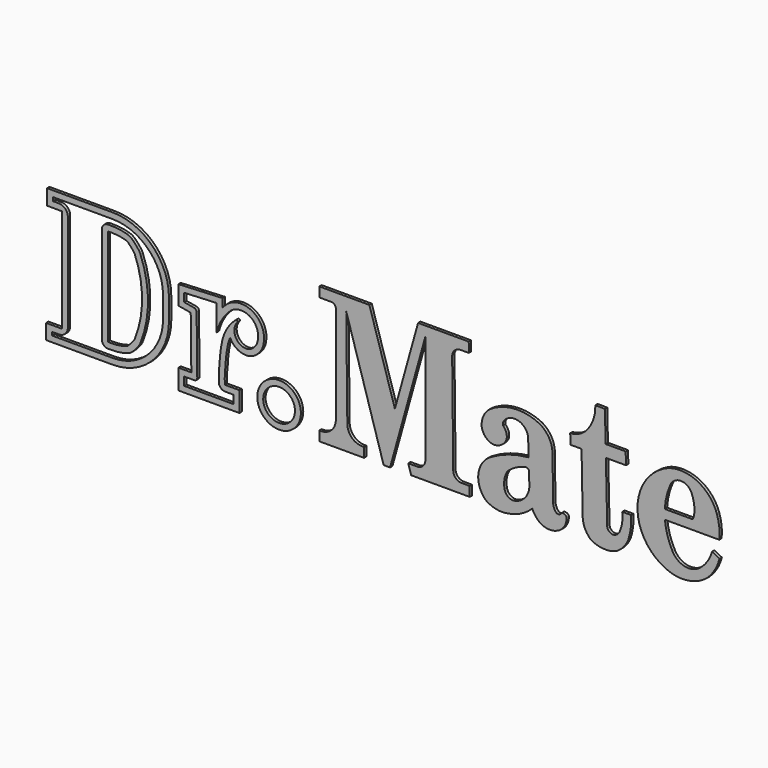
from build123d import *

# Parameters (mm, degrees)
F1_DEPTH  = 5
F3_DEPTH  = 12.5
F4_R      = 5
F6_DEPTH  = 5
F7_R      = 5.37597
F8_DEPTH  = 5
F10_DEPTH = 0.5
F12_DEPTH = 0.5
F14_DEPTH = 0.5
F16_DEPTH = 0.5
F18_DEPTH = 0.5
F20_DEPTH = 0.5
F21_R     = 7.37597
F21_R_2   = 5.37597
F22_DEPTH = 0.5


with BuildPart() as f1:
    # F0 (on Front) → F1 (new body, symmetric)
    with BuildSketch(Plane.XZ):
        with BuildLine():
            ThreePointArc((41.928615, 27.375755), (36.627247, 40.174388), (23.828615, 45.475755))
            Line((23.828615, 45.475755), (2.694897, 45.475755))
            Line((2.694897, 45.475755), (2.694897, 42.241637))
            Line((2.694897, 42.241637), (5.72509, 42.241637))
            ThreePointArc((5.72509, 42.241637), (7.139303, 41.65585), (7.72509, 40.241637))
            Line((7.72509, 40.241637), (7.72509, 7.241453))
            ThreePointArc((7.72509, 7.241453), (7.139303, 5.827239), (5.72509, 5.241453))
            Line((5.72509, 5.241453), (2.359551, 5.241453))
            Line((2.359551, 5.241453), (2.359551, 2.111555))
            Line((2.359551, 2.111555), (23.828615, 2.111555))
            ThreePointArc((23.828615, 2.111555), (36.627247, 7.412922), (41.928615, 20.211555))
            Line((41.928615, 20.211555), (41.928615, 27.375755))
        make_face()
    extrude(amount=F1_DEPTH, both=True)

    # F2 (on Front) → F3 (cut, symmetric)
    with BuildSketch(Plane.XZ):
        with BuildLine():
            ThreePointArc((22.255834, 42.332382), (20.84162, 41.746595), (20.255834, 40.332382))
            Line((20.255834, 40.332382), (20.255834, 7.374743))
            ThreePointArc((20.255834, 7.374743), (20.84162, 5.96053), (22.255834, 5.374743))
            Line((22.255834, 5.374743), (23.679911, 5.374743))
            ThreePointArc((23.679911, 5.374743), (26.847073, 5.655571), (29.915409, 6.489289))
            ThreePointArc((29.915409, 6.489289), (31.557457, 8.171211), (33.024682, 10.00763))
            ThreePointArc((33.024682, 10.00763), (35.838498, 23.853563), (33.024682, 37.699496))
            ThreePointArc((33.024682, 37.699496), (31.557457, 39.535914), (29.915409, 41.217836))
            ThreePointArc((29.915409, 41.217836), (26.847073, 42.051555), (23.679911, 42.332382))
            Line((23.679911, 42.332382), (22.255834, 42.332382))
        make_face()
    extrude(amount=F3_DEPTH, both=True, mode=Mode.SUBTRACT)

    # F4
    f4_edges = [f1.edges().sort_by_distance(p)[0] for p in [
        (33.024682, 0, 10.00763),
        (29.915409, 0, 6.489289),
        (33.024682, 0, 37.699496),
        (29.915409, 0, 41.217836),
    ]]
    fillet(f4_edges, radius=F4_R)


with BuildPart() as f6:
    # F5 (on Front) → F6 (new body, symmetric)
    with BuildSketch(Plane.XZ):
        with BuildLine():
            Line((59.08636, 30.932959), (48.097987, 30.420209))
            Line((48.097987, 30.420209), (48.097987, 27.610346))
            Line((48.097987, 27.610346), (51.457718, 27.038821))
            ThreePointArc((51.457718, 27.038821), (52.050479, 26.702366), (52.289954, 26.064229))
            Line((52.289954, 26.064229), (52.510208, 6.479412))
            ThreePointArc((52.510208, 6.479412), (52.221343, 5.765047), (51.510271, 5.468167))
            Line((51.510271, 5.468167), (48.097987, 5.468167))
            Line((48.097987, 5.468167), (48.097987, 2.663691))
            Line((48.097987, 2.663691), (64.79115, 2.663691))
            Line((64.79115, 2.663691), (64.79115, 5.468167))
            Line((64.79115, 5.468167), (61.827441, 5.468167))
            ThreePointArc((61.827441, 5.468167), (60.623815, 5.923207), (59.888292, 6.97904))
            ThreePointArc((59.888292, 6.97904), (59.807752, 10.034382), (60.031943, 13.082551))
            ThreePointArc((60.031943, 13.082551), (60.342022, 16.746232), (60.961258, 20.370491))
            ThreePointArc((60.961258, 20.370491), (62.625207, 24.520168), (65.505102, 27.939927))
            ThreePointArc((65.505102, 27.939927), (65.978585, 27.977635), (66.106237, 27.520128))
            ThreePointArc((66.106237, 27.520128), (65.059345, 24.927677), (65.855473, 22.247571))
            ThreePointArc((65.855473, 22.247571), (67.650507, 20.854267), (69.917969, 20.70575))
            ThreePointArc((69.917969, 20.70575), (72.143746, 22.340309), (73.065154, 24.943551))
            ThreePointArc((73.065154, 24.943551), (70.299431, 30.621512), (63.990012, 30.339213))
            ThreePointArc((63.990012, 30.339213), (60.907157, 26.647036), (59.08636, 22.194974))
            Line((59.08636, 22.194974), (59.08636, 30.932959))
        make_face()
    extrude(amount=F6_DEPTH, both=True)


with BuildPart() as f8:
    # F7 (on Front) → F8 (new body, symmetric)
    with BuildSketch(Plane.XZ):
        with Locations((80.198042, 7.442546)):
            Circle(F7_R)
    extrude(amount=F8_DEPTH, both=True)


with BuildPart() as f10:
    # F9 (on Front) → F10 (new body, symmetric)
    with BuildSketch(Plane.XZ):
        with BuildLine():
            Line((110.74648, 47.16339), (93.808994, 47.16339))
            Line((93.808994, 47.16339), (93.808994, 43.880991))
            Line((93.808994, 43.880991), (97.904898, 43.874651))
            ThreePointArc((97.904898, 43.874651), (98.964057, 43.434491), (99.402577, 42.374652))
            Line((99.402577, 42.374652), (99.402577, 9.272454))
            ThreePointArc((99.402577, 9.272454), (97.93811, 5.73692), (94.402577, 4.272454))
            Line((94.402577, 4.272454), (93.808994, 4.272454))
            Line((93.808994, 4.272454), (93.808994, 1.022454))
            Line((93.808994, 1.022454), (108.944058, 1.022454))
            Line((108.944058, 1.022454), (108.944058, 4.272454))
            Line((108.944058, 4.272454), (108.282536, 4.272454))
            ThreePointArc((108.282536, 4.272454), (104.76645, 5.717579), (103.282837, 9.217598))
            Line((103.282837, 9.217598), (102.915005, 42.742875))
            Line((102.915005, 42.742875), (115.568945, 1.022454))
            Line((115.568945, 1.022454), (117.742939, 1.022454))
            Line((117.742939, 1.022454), (129.686892, 43.889792))
            Line((129.686892, 43.889792), (129.686892, 7.072454))
            ThreePointArc((129.686892, 7.072454), (128.866791, 5.092555), (126.886892, 4.272454))
            Line((126.886892, 4.272454), (123.900531, 4.272454))
            Line((123.900531, 4.272454), (124.897261, 1.022454))
            Line((124.897261, 1.022454), (144.708101, 1.022454))
            Line((144.708101, 1.022454), (144.683811, 4.272454))
            Line((144.683811, 4.272454), (141.919095, 4.272454))
            ThreePointArc((141.919095, 4.272454), (139.949968, 5.081841), (139.11926, 7.042068))
            Line((139.11926, 7.042068), (138.750977, 40.976699))
            ThreePointArc((138.750977, 40.976699), (139.561724, 42.977752), (141.555147, 43.807082))
            Line((141.555147, 43.807082), (144.388369, 43.802696))
            Line((144.388369, 43.802696), (144.363252, 47.16339))
            Line((144.363252, 47.16339), (127.217549, 47.16339))
            Line((127.217549, 47.16339), (119.376829, 19.022725))
            Line((119.376829, 19.022725), (110.74648, 47.16339))
        make_face()
    extrude(amount=F10_DEPTH, both=True)


with BuildPart() as f12:
    # F11 (on Front) → F12 (new body, symmetric)
    with BuildSketch(Plane.XZ):
        with BuildLine():
            Line((172.926531, 8.419896), (172.704191, 22.648923))
            ThreePointArc((172.704191, 22.648923), (171.660538, 27.119698), (168.47995, 30.430423))
            ThreePointArc((168.47995, 30.430423), (159.759284, 32.208352), (151.360646, 29.263198))
            ThreePointArc((151.360646, 29.263198), (149.300705, 26.589789), (148.748294, 23.260327))
            ThreePointArc((148.748294, 23.260327), (149.945557, 20.709433), (152.36114, 19.258413))
            ThreePointArc((152.36114, 19.258413), (155.232605, 19.907327), (157.141194, 22.148684))
            ThreePointArc((157.141194, 22.148684), (157.066828, 24.195743), (155.973971, 25.92827))
            ThreePointArc((155.973971, 25.92827), (156.134728, 27.216745), (156.97445, 28.207138))
            ThreePointArc((156.97445, 28.207138), (161.546547, 28.93237), (164.448523, 25.325632))
            Line((164.448523, 25.325632), (164.626919, 19.28151))
            ThreePointArc((164.626919, 19.28151), (157.740648, 17.875146), (151.357234, 14.933951))
            ThreePointArc((151.357234, 14.933951), (147.596617, 8.676913), (150.094763, 1.817465))
            ThreePointArc((150.094763, 1.817465), (153.64598, 0.288208), (157.512472, 0.28473))
            ThreePointArc((157.512472, 0.28473), (162.017435, 1.680725), (165.845022, 4.436279))
            ThreePointArc((165.845022, 4.436279), (167.091284, 2.346176), (168.942556, 0.766779))
            ThreePointArc((168.942556, 0.766779), (171.775044, 0.050313), (174.615234, 0.73561))
            ThreePointArc((174.615234, 0.73561), (176.772216, 2.73153), (177.420408, 5.597906))
            ThreePointArc((177.420408, 5.597906), (176.713168, 6.316821), (175.704971, 6.293061))
            ThreePointArc((175.704971, 6.293061), (174.977199, 5.656797), (174.020842, 5.797732))
            ThreePointArc((174.020842, 5.797732), (173.221721, 7.003661), (172.926531, 8.419896))
        make_face()
        with BuildLine():
            ThreePointArc((163.461283, 16.100695), (164.179338, 15.938822), (164.739669, 15.461501))
            Line((164.739669, 15.461501), (164.86997, 11.04687))
            ThreePointArc((164.86997, 11.04687), (163.406679, 6.870682), (159.524788, 4.746372))
            ThreePointArc((159.524788, 4.746372), (157.538787, 5.414789), (156.490204, 7.229027))
            ThreePointArc((156.490204, 7.229027), (156.458366, 10.178856), (157.538787, 12.923887))
            ThreePointArc((157.538787, 12.923887), (160.311688, 14.863426), (163.461283, 16.100695))
        make_face(mode=Mode.SUBTRACT)
    extrude(amount=F12_DEPTH, both=True)


with BuildPart() as f14:
    # F13 (on Front) → F14 (new body, symmetric)
    with BuildSketch(Plane.XZ):
        with BuildLine():
            Line((190.436974, 42.102426), (187.175499, 42.15927))
            ThreePointArc((187.175499, 42.15927), (186.701858, 38.25839), (185.005292, 34.713976))
            ThreePointArc((185.005292, 34.713976), (182.273605, 32.146843), (178.691778, 31.041044))
            Line((178.691778, 31.041044), (178.790871, 27.632236))
            Line((178.790871, 27.632236), (182.531143, 27.632236))
            Line((182.531143, 27.632236), (182.90991, 7.557625))
            ThreePointArc((182.90991, 7.557625), (183.699023, 4.232647), (185.783133, 1.524389))
            ThreePointArc((185.783133, 1.524389), (189.972202, 0.296199), (194.282547, 0.987338))
            ThreePointArc((194.282547, 0.987338), (196.721963, 3.042422), (198.368803, 5.774096))
            ThreePointArc((198.368803, 5.774096), (199.188301, 9.526595), (199.265575, 13.366759))
            Line((199.265575, 13.366759), (196.291596, 13.366759))
            ThreePointArc((196.291596, 13.366759), (196.261359, 10.124445), (195.356548, 7.010794))
            ThreePointArc((195.356548, 7.010794), (194.65277, 6.165584), (193.704605, 5.608208))
            ThreePointArc((193.704605, 5.608208), (192.105361, 5.900663), (191.217607, 7.262648))
            ThreePointArc((191.217607, 7.262648), (191.187936, 7.56772), (191.203913, 7.873814))
            Line((191.203913, 7.873814), (190.761199, 27.632236))
            Line((190.761199, 27.632236), (197.585095, 27.632236))
            Line((197.585095, 27.632236), (197.441921, 31.726956))
            Line((197.441921, 31.726956), (190.669451, 31.726956))
            Line((190.669451, 31.726956), (190.436974, 42.102426))
        make_face()
        with BuildLine():
            Line((191.217607, 7.262648), (191.203913, 7.873814))
            ThreePointArc((191.203913, 7.873814), (191.187936, 7.56772), (191.217607, 7.262648))
        make_face()
    extrude(amount=F14_DEPTH, both=True)


with BuildPart() as f16:
    # F15 (on Front) → F16 (new body, symmetric)
    with BuildSketch(Plane.XZ):
        with BuildLine():
            ThreePointArc((213.341057, 7.057155), (211.598673, 11.247591), (210.740326, 15.703923))
            Line((210.740326, 15.703923), (229.120436, 15.703923))
            ThreePointArc((229.120436, 15.703923), (229.123198, 19.493332), (228.311559, 23.194801))
            ThreePointArc((228.311559, 23.194801), (221.931664, 30.647824), (212.165326, 31.58015))
            ThreePointArc((212.165326, 31.58015), (201.460081, 15.70659), (213.051207, 0.46789))
            ThreePointArc((213.051207, 0.46789), (219.365152, 0.281064), (225.057542, 3.019219))
            ThreePointArc((225.057542, 3.019219), (227.646267, 6.258141), (229.203355, 10.101002))
            Line((229.203355, 10.101002), (226.694487, 11.403073))
            ThreePointArc((226.694487, 11.403073), (225.025839, 7.846061), (222.305551, 5.011143))
            ThreePointArc((222.305551, 5.011143), (217.363891, 4.021255), (213.341057, 7.057155))
        make_face()
        with BuildLine():
            Line((220.106691, 18.885396), (210.686156, 18.885396))
            ThreePointArc((210.686156, 18.885396), (211.265175, 22.863019), (212.548524, 26.672186))
            ThreePointArc((212.548524, 26.672186), (216.179918, 29.027377), (219.754039, 26.586146))
            ThreePointArc((219.754039, 26.586146), (220.63323, 23.36758), (220.584422, 20.03145))
            ThreePointArc((220.584422, 20.03145), (220.372229, 19.447305), (220.106691, 18.885396))
        make_face(mode=Mode.SUBTRACT)
    extrude(amount=F16_DEPTH, both=True)


with BuildPart() as f18:
    # F17 (on Front) → F18 (new body, symmetric)
    with BuildSketch(Plane.XZ):
        with BuildLine():
            ThreePointArc((42.928615, 27.375755), (37.334354, 40.881495), (23.828615, 46.475755))
            Line((23.828615, 46.475755), (1.694897, 46.475755))
            Line((1.694897, 46.475755), (1.694897, 41.241637))
            Line((1.694897, 41.241637), (6.72509, 41.241637))
            Line((6.72509, 41.241637), (6.72509, 6.241453))
            Line((6.72509, 6.241453), (1.359551, 6.241453))
            Line((1.359551, 6.241453), (1.359551, 1.111555))
            Line((1.359551, 1.111555), (23.828615, 1.111555))
            ThreePointArc((23.828615, 1.111555), (37.334354, 6.705816), (42.928615, 20.211555))
            Line((42.928615, 20.211555), (42.928615, 27.375755))
        make_face()
        with BuildLine():
            Line((2.359551, 5.241453), (5.72509, 5.241453))
            ThreePointArc((5.72509, 5.241453), (7.139303, 5.827239), (7.72509, 7.241453))
            Line((7.72509, 7.241453), (7.72509, 40.241637))
            ThreePointArc((7.72509, 40.241637), (7.139303, 41.65585), (5.72509, 42.241637))
            Line((5.72509, 42.241637), (2.694897, 42.241637))
            Line((2.694897, 42.241637), (2.694897, 45.475755))
            Line((2.694897, 45.475755), (23.828615, 45.475755))
            ThreePointArc((23.828615, 45.475755), (36.627247, 40.174388), (41.928615, 27.375755))
            Line((41.928615, 27.375755), (41.928615, 20.211555))
            ThreePointArc((41.928615, 20.211555), (36.627247, 7.412922), (23.828615, 2.111555))
            Line((23.828615, 2.111555), (2.359551, 2.111555))
            Line((2.359551, 2.111555), (2.359551, 5.241453))
        make_face(mode=Mode.SUBTRACT)
        with BuildLine():
            ThreePointArc((7.72509, 7.241453), (7.139303, 5.827239), (5.72509, 5.241453))
            Line((5.72509, 5.241453), (2.359551, 5.241453))
            Line((2.359551, 5.241453), (2.359551, 2.111555))
            Line((2.359551, 2.111555), (23.828615, 2.111555))
            ThreePointArc((23.828615, 2.111555), (36.627247, 7.412922), (41.928615, 20.211555))
            Line((41.928615, 20.211555), (41.928615, 27.375755))
            ThreePointArc((41.928615, 27.375755), (36.627247, 40.174388), (23.828615, 45.475755))
            Line((23.828615, 45.475755), (2.694897, 45.475755))
            Line((2.694897, 45.475755), (2.694897, 42.241637))
            Line((2.694897, 42.241637), (5.72509, 42.241637))
            ThreePointArc((5.72509, 42.241637), (7.139303, 41.65585), (7.72509, 40.241637))
            Line((7.72509, 40.241637), (7.72509, 7.241453))
        make_face()
        with BuildLine():
            ThreePointArc((23.828615, 44.475757), (35.920142, 39.467282), (40.928616, 27.375755))
            Line((40.928616, 27.375755), (40.928616, 20.211555))
            ThreePointArc((40.928616, 20.211555), (35.920142, 8.120028), (23.828615, 3.111554))
            Line((23.828615, 3.111554), (3.35955, 3.111554))
            Line((3.35955, 3.111554), (3.35955, 4.241454))
            Line((3.35955, 4.241454), (5.72509, 4.241454))
            ThreePointArc((5.72509, 4.241454), (7.846409, 5.120133), (8.725088, 7.241453))
            Line((8.725088, 7.241453), (8.725088, 40.241637))
            ThreePointArc((8.725088, 40.241637), (7.846409, 42.362956), (5.72509, 43.241635))
            Line((5.72509, 43.241635), (3.694895, 43.241635))
            Line((3.694895, 43.241635), (3.694895, 44.475757))
            Line((3.694895, 44.475757), (23.828615, 44.475757))
        make_face(mode=Mode.SUBTRACT)
        with BuildLine():
            Line((23.679911, 42.332382), (22.255834, 42.332382))
            ThreePointArc((22.255834, 42.332382), (20.84162, 41.746595), (20.255834, 40.332382))
            Line((20.255834, 40.332382), (20.255834, 7.374743))
            ThreePointArc((20.255834, 7.374743), (20.84162, 5.96053), (22.255834, 5.374743))
            Line((22.255834, 5.374743), (23.679911, 5.374743))
            ThreePointArc((23.679911, 5.374743), (26.175002, 5.548512), (28.621918, 6.066463))
            ThreePointArc((28.621918, 6.066463), (29.821668, 6.586885), (30.845432, 7.400607))
            ThreePointArc((30.845432, 7.400607), (31.756392, 8.399239), (32.608892, 9.448218))
            ThreePointArc((32.608892, 9.448218), (32.984276, 10.013796), (33.279593, 10.625008))
            ThreePointArc((33.279593, 10.625008), (35.838498, 23.853563), (33.279593, 37.082117))
            ThreePointArc((33.279593, 37.082117), (32.984276, 37.693329), (32.608892, 38.258908))
            ThreePointArc((32.608892, 38.258908), (31.756392, 39.307886), (30.845432, 40.306518))
            ThreePointArc((30.845432, 40.306518), (29.821668, 41.120241), (28.621918, 41.640662))
            ThreePointArc((28.621918, 41.640662), (26.175002, 42.158613), (23.679911, 42.332382))
        make_face()
        with BuildLine():
            Line((22.255834, 7.374743), (22.255834, 40.332382))
            Line((22.255834, 40.332382), (23.679911, 40.332382))
            ThreePointArc((23.679911, 40.332382), (26.299493, 40.116481), (28.848378, 39.474606))
            ThreePointArc((28.848378, 39.474606), (30.118332, 38.143869), (31.270921, 36.710278))
            ThreePointArc((31.270921, 36.710278), (33.838498, 23.853563), (31.270921, 10.996847))
            ThreePointArc((31.270921, 10.996847), (30.118332, 9.563256), (28.848378, 8.232519))
            ThreePointArc((28.848378, 8.232519), (26.299493, 7.590644), (23.679911, 7.374743))
            Line((23.679911, 7.374743), (22.255834, 7.374743))
        make_face(mode=Mode.SUBTRACT)
    extrude(amount=F18_DEPTH, both=True)


with BuildPart() as f20:
    # F19 (on Front) → F20 (new body, symmetric)
    with BuildSketch(Plane.XZ):
        with BuildLine():
            ThreePointArc((62.914388, 19.939911), (63.220059, 21.043236), (63.628687, 22.112714))
            ThreePointArc((63.628687, 22.112714), (63.903283, 21.585434), (64.226838, 21.086695))
            ThreePointArc((64.226838, 21.086695), (66.995283, 18.964054), (70.479182, 18.784229))
            ThreePointArc((70.479182, 18.784229), (73.692549, 21.072453), (75.059213, 24.772984))
            ThreePointArc((75.059213, 24.772984), (71.241784, 32.387385), (62.737933, 31.901164))
            ThreePointArc((62.737933, 31.901164), (61.88516, 31.108176), (61.086359, 30.260845))
            Line((61.086359, 30.260845), (61.086359, 33.02846))
            Line((61.086359, 33.02846), (46.097988, 32.329058))
            Line((46.097988, 32.329058), (46.097988, 25.921836))
            Line((46.097988, 25.921836), (50.299468, 25.207121))
            Line((50.299468, 25.207121), (50.498963, 7.468166))
            Line((50.498963, 7.468166), (46.097988, 7.468166))
            Line((46.097988, 7.468166), (46.097988, 0.663692))
            Line((46.097988, 0.663692), (66.791149, 0.663692))
            Line((66.791149, 0.663692), (66.791149, 7.468166))
            Line((66.791149, 7.468166), (61.922686, 7.468166))
            ThreePointArc((61.922686, 7.468166), (61.888198, 7.479619), (61.856841, 7.497986))
            ThreePointArc((61.856841, 7.497986), (61.81335, 10.211443), (62.026821, 12.916841))
            ThreePointArc((62.026821, 12.916841), (62.320135, 16.447392), (62.914388, 19.939911))
        make_face()
        with BuildLine():
            ThreePointArc((66.106237, 27.520128), (65.978585, 27.977635), (65.505102, 27.939927))
            ThreePointArc((65.505102, 27.939927), (62.625207, 24.520168), (60.961258, 20.370491))
            ThreePointArc((60.961258, 20.370491), (60.342022, 16.746232), (60.031943, 13.082551))
            ThreePointArc((60.031943, 13.082551), (59.807752, 10.034382), (59.888292, 6.97904))
            ThreePointArc((59.888292, 6.97904), (60.623815, 5.923207), (61.827441, 5.468167))
            Line((61.827441, 5.468167), (64.79115, 5.468167))
            Line((64.79115, 5.468167), (64.79115, 2.663691))
            Line((64.79115, 2.663691), (48.097987, 2.663691))
            Line((48.097987, 2.663691), (48.097987, 5.468167))
            Line((48.097987, 5.468167), (51.510271, 5.468167))
            ThreePointArc((51.510271, 5.468167), (52.221343, 5.765047), (52.510208, 6.479412))
            Line((52.510208, 6.479412), (52.289954, 26.064229))
            ThreePointArc((52.289954, 26.064229), (52.050479, 26.702366), (51.457718, 27.038821))
            Line((51.457718, 27.038821), (48.097987, 27.610346))
            Line((48.097987, 27.610346), (48.097987, 30.420209))
            Line((48.097987, 30.420209), (59.08636, 30.932959))
            Line((59.08636, 30.932959), (59.08636, 22.194974))
            ThreePointArc((59.08636, 22.194974), (60.907157, 26.647036), (63.990012, 30.339213))
            ThreePointArc((63.990012, 30.339213), (70.299431, 30.621512), (73.065154, 24.943551))
            ThreePointArc((73.065154, 24.943551), (72.143746, 22.340309), (69.917969, 20.70575))
            ThreePointArc((69.917969, 20.70575), (67.650507, 20.854267), (65.855473, 22.247571))
            ThreePointArc((65.855473, 22.247571), (65.059345, 24.927677), (66.106237, 27.520128))
        make_face(mode=Mode.SUBTRACT)
    extrude(amount=F20_DEPTH, both=True)


with BuildPart() as f22:
    # F21 (on Front) → F22 (new body, symmetric)
    with BuildSketch(Plane.XZ):
        with Locations((80.198042, 7.442546)):
            Circle(F21_R)
        with Locations((80.198042, 7.442546)):
            Circle(F21_R_2, mode=Mode.SUBTRACT)
    extrude(amount=F22_DEPTH, both=True)


solid = Compound([f10.part, f12.part, f14.part, f16.part, f18.part, f20.part, f22.part])
